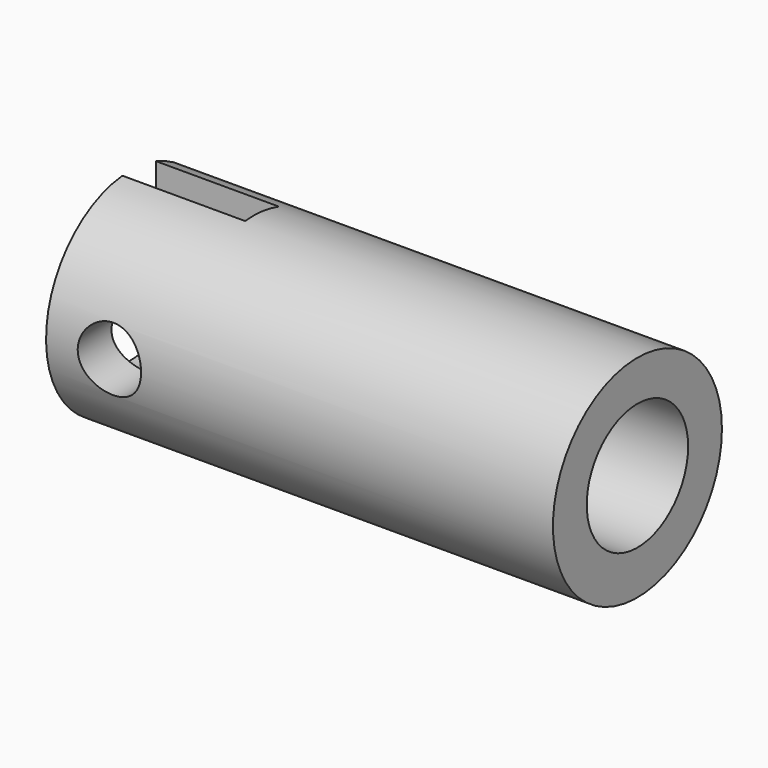
from build123d import *

# Parameters (mm, degrees)
F0_R     = 31.75
F2_DEPTH = 152.4
F1_R     = 19.05
F3_DEPTH = 152.4
F4_R     = 9.525
F5_DEPTH = 38.1
F6_W     = 38.1
F6_H     = 12.7
F7_DEPTH = 50.8


with BuildPart() as f2:
    # F0 (on Right) → F2 (new body)
    with BuildSketch(Plane.YZ):
        with Locations((0.1902006916, -0.0633993695)):
            Circle(F0_R)
    extrude(amount=F2_DEPTH)

    # F1 (on Right) → F3 (cut)
    with BuildSketch(Plane.YZ):
        with Locations((0.1902006916, 0.4437955504)):
            Circle(F1_R)
    extrude(amount=F3_DEPTH, mode=Mode.SUBTRACT)

    # F4 (on Front) → F5 (cut, symmetric)
    with BuildSketch(Plane.XZ):
        with Locations((19.0424583852, 0.2906440059)):
            Circle(F4_R)
    extrude(amount=F5_DEPTH, both=True, mode=Mode.SUBTRACT)

    # F6 (on Top) → F7 (cut)
    with BuildSketch(Plane.XY):
        with Locations((17.8630856547, 3.4606340123)):
            Rectangle(F6_W, F6_H)
    extrude(amount=F7_DEPTH, mode=Mode.SUBTRACT)


solid = f2.part
